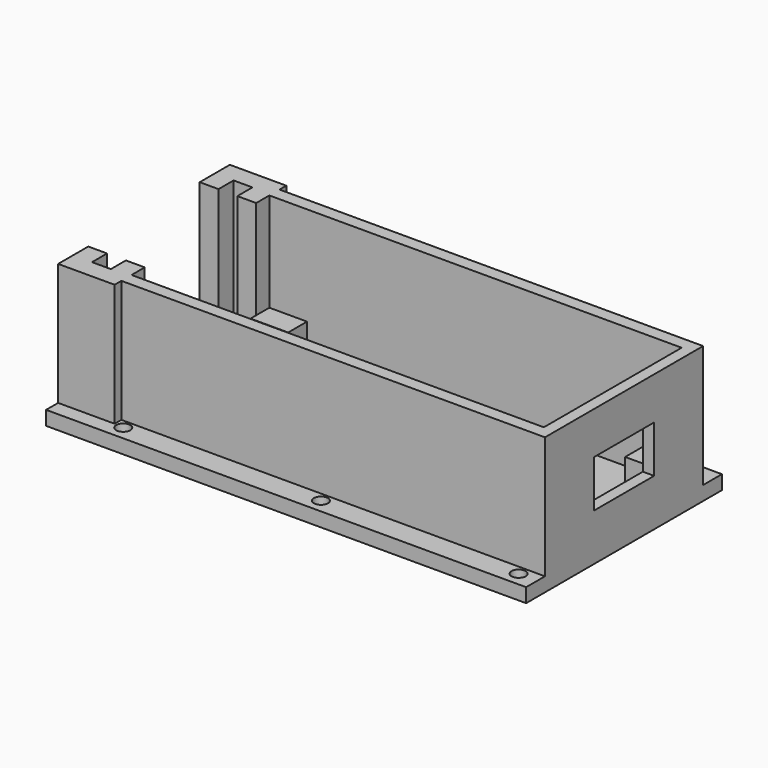
from build123d import *

# Parameters (mm, degrees)
F0_W      = 51
F0_H      = 26
F1_DEPTH  = 1.5
F2_W      = 2
F2_H      = 2
F3_DEPTH  = 13
F5_DEPTH  = 13
F6_W      = 4
F6_H      = 2.5
F7_DEPTH  = 2.5
F8_R      = 0.75
F9_DEPTH  = 1.501
F11_DEPTH = 2
F12_W     = 8
F12_H     = 5
F13_DEPTH = 1.2


with BuildPart() as f1:
    # F0 (on Top) → F1 (new body)
    with BuildSketch(Plane.XY):
        Rectangle(F0_W, F0_H)
    extrude(amount=F1_DEPTH)

    # F2 (on face) → F3 (join)
    with BuildSketch(Plane.XY.offset(1.5)):
        with Locations((-24.5, 8.4)):
            Rectangle(F2_W, F2_H)
        Polygon((-19.5, 11.4), (-25.5, 11.4), (-25.5, 9.4), (-23.5, 9.4), (-21.5, 9.4), (-19.5, 9.4), align=None)
        with Locations((-20.5, 8.4)):
            Rectangle(F2_W, F2_H)
        with Locations((-24.5, -8.4)):
            Rectangle(F2_W, F2_H)
        Polygon((-23.5, -9.4), (-25.5, -9.4), (-25.5, -11.4), (-19.5, -11.4), (-19.5, -9.4), (-21.5, -9.4), align=None)
        with Locations((-20.5, -8.4)):
            Rectangle(F2_W, F2_H)
    extrude(amount=F3_DEPTH)

    # F4 (on face) → F5 (join)
    with BuildSketch(Plane.XY.offset(1.5)):
        Polygon((-19.5, 10.5), (-19.5, 9.15), (24.3, 9.15), (24.3, -9.15), (-19.5, -9.15), (-19.5, -10.5), (25.5, -10.5), (25.5, 10.5), align=None)
    extrude(amount=F5_DEPTH)

    # F6 (on face) → F7 (join)
    with BuildSketch(Plane.XY.offset(1.5)):
        Polygon((-15.5, 9.15), (-19.5, 9.15), (-19.5, 7.4), (-19.5, 6.65), (-15.5, 6.65), align=None)
        with Locations((22.3, 7.9)):
            Rectangle(F6_W, F6_H)
        with Locations((22.3, -7.9)):
            Rectangle(F6_W, F6_H)
        Polygon((-19.5, -9.15), (-15.5, -9.15), (-15.5, -6.65), (-19.5, -6.65), (-19.5, -7.4), align=None)
    extrude(amount=F7_DEPTH)

    # F8 (on face) → F9 (cut, through all)
    with BuildSketch(Plane.XY.offset(1.5)):
        with Locations((-18.5, 11.5)):
            Circle(F8_R)
        with Locations((2.5, 11.5)):
            Circle(F8_R)
        with Locations((23.5, 11.5)):
            Circle(F8_R)
        with Locations((-18.5, -11.5)):
            Circle(F8_R)
        with Locations((2.5, -11.5)):
            Circle(F8_R)
        with Locations((23.5, -11.5)):
            Circle(F8_R)
    extrude(amount=-F9_DEPTH, mode=Mode.SUBTRACT)

    # F10 (on face) → F11 (cut)
    with BuildSketch(Plane.XY.offset(1.5)):
        Polygon((-21.5, 9.4), (-23.5, 9.4), (-23.5, 7.4), (-23.5, -7.4), (-23.5, -9.4), (-21.5, -9.4), (-21.5, -7.4), (-21.5, 7.4), align=None)
    extrude(amount=-F11_DEPTH, mode=Mode.SUBTRACT)

    # F12 (on face) → F13 (cut, through all)
    with BuildSketch(Plane.YZ.offset(25.5)):
        with Locations((0, 7.5)):
            Rectangle(F12_W, F12_H)
    extrude(amount=-F13_DEPTH, mode=Mode.SUBTRACT)


solid = f1.part
